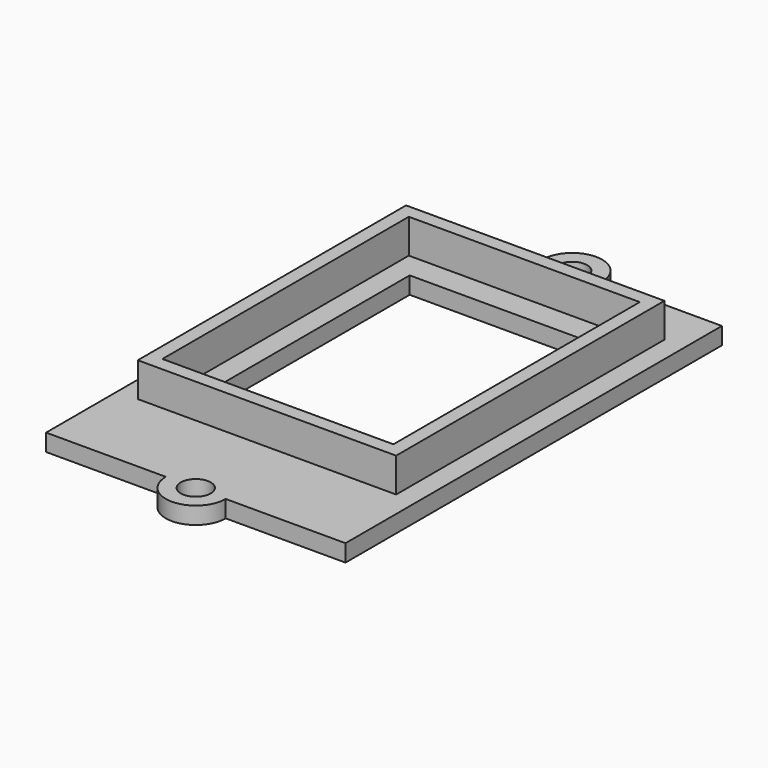
from build123d import *

# Parameters (mm, degrees)
SKETCH_R      = 1.75
SKETCH_W      = 22
SKETCH_H      = 30
PAD_DEPTH     = 2
SKETCH001_W   = 30.2
SKETCH001_H   = 39.2
SKETCH001_W_2 = 27
SKETCH001_H_2 = 36
PAD001_DEPTH  = 6


with BuildPart() as part:
    # Sketch → Pad (new body)
    with BuildSketch(Plane.XY):
        with BuildLine():
            ThreePointArc((3.5, 25), (0, 28.5), (-3.5, 25))
            Line((-3.5, 25), (-17.5, 25))
            Line((-17.5, 25), (-17.5, -30))
            Line((-17.5, -30), (-3.5, -30))
            ThreePointArc((-3.5, -30), (0, -33.5), (3.5, -30))
            Line((3.5, -30), (17.5, -30))
            Line((17.5, -30), (17.5, 25))
            Line((17.5, 25), (3.5, 25))
        make_face()
        with Locations((0, 25)):
            Circle(SKETCH_R, mode=Mode.SUBTRACT)
        with Locations((0, -30)):
            Circle(SKETCH_R, mode=Mode.SUBTRACT)
        Rectangle(SKETCH_W, SKETCH_H, mode=Mode.SUBTRACT)
    extrude(amount=PAD_DEPTH)

    # Sketch001 → Pad001 (join)
    with BuildSketch(Plane.XY):
        Rectangle(SKETCH001_W, SKETCH001_H)
        Rectangle(SKETCH001_W_2, SKETCH001_H_2, mode=Mode.SUBTRACT)
    extrude(amount=PAD001_DEPTH)


solid = part.part
